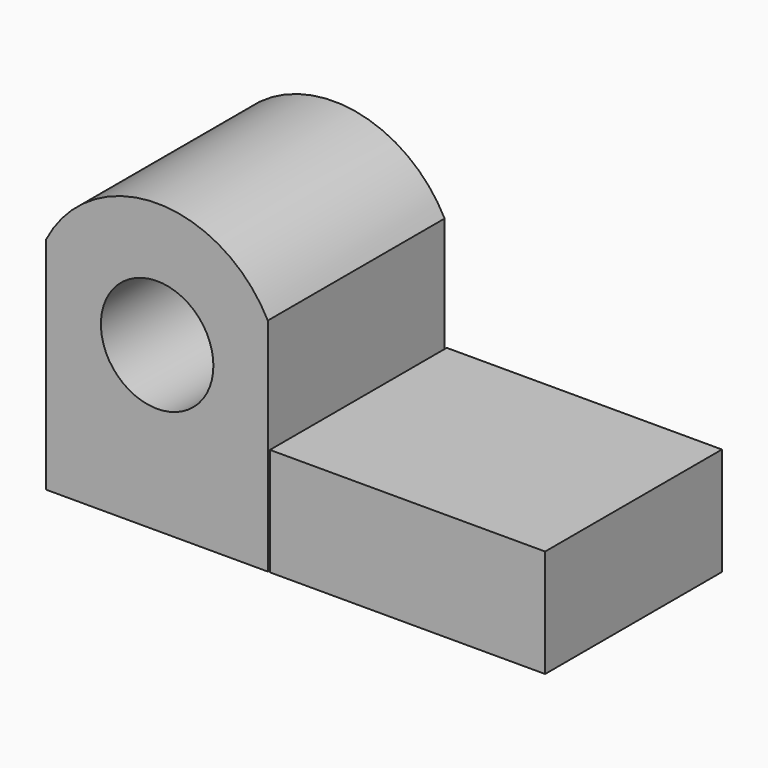
from build123d import *

# Parameters (mm, degrees)
F0_R     = 6.465046
F1_DEPTH = 25.4
F2_W     = 31.62788
F2_H     = 12.394711
F3_DEPTH = 25.4


with BuildPart() as f1:
    # F0 (on Front) → F1 (new body)
    with BuildSketch(Plane.XZ):
        with BuildLine():
            Line((0, 25.314765), (0, 0))
            Line((0, 0), (25.485235, 0))
            Line((25.485235, 0), (25.485235, 12.7))
            Line((25.485235, 12.7), (25.485235, 25.4))
            ThreePointArc((25.485235, 25.4), (12.716628, 33.128228), (0, 25.314765))
        make_face()
        with Locations((12.764565, 18.795145)):
            Circle(F0_R, mode=Mode.SUBTRACT)
    extrude(amount=F1_DEPTH)


with BuildPart() as f3:
    # F2 (on Front) → F3 (new body)
    with BuildSketch(Plane.XZ):
        with Locations((41.543654, 6.197355)):
            Rectangle(F2_W, F2_H)
    extrude(amount=F3_DEPTH)


solid = Compound([f1.part, f3.part])
